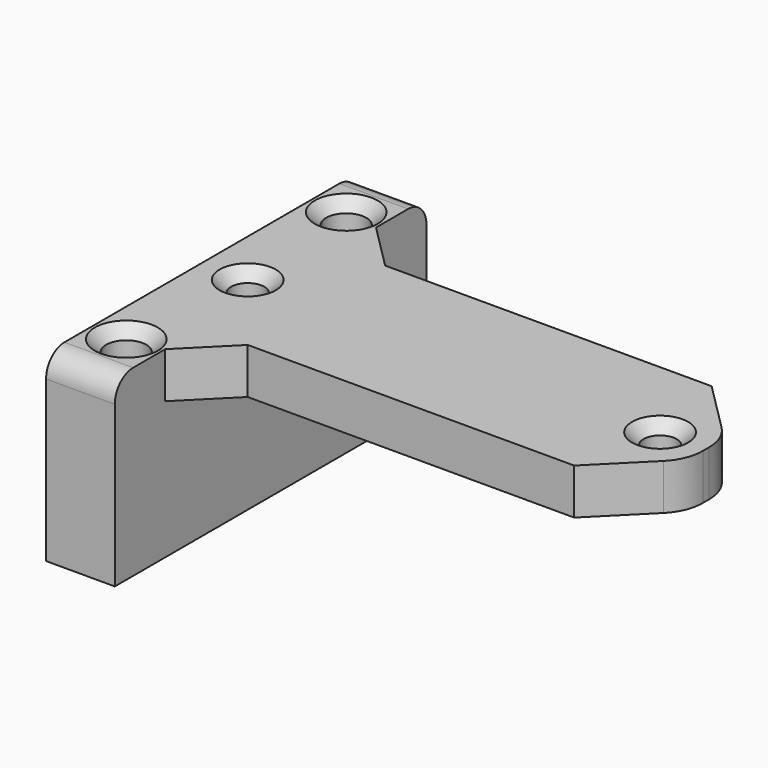
from build123d import *

# Parameters (mm, degrees)
SKETCH_W        = 6
SKETCH_H        = 34
PAD_DEPTH       = 12
PAD001_DEPTH    = 4
SKETCH003_R     = 1.75
POCKET_DEPTH    = 16.001
FILLET_R        = 2
CHAMFER_SIZE    = 1
SKETCH004_R     = 1.45
POCKET001_DEPTH = 6
CHAMFER001_SIZE = 5.5
FILLET001_R     = 4
CHAMFER002_SIZE = 4
CHAMFER003_SIZE = 1


with BuildPart() as part:
    # Sketch → Pad (new body)
    with BuildSketch(Plane.XY):
        with Locations((3, 17)):
            Rectangle(SKETCH_W, SKETCH_H)
    extrude(amount=PAD_DEPTH)

    # Sketch002 → Pad001 (join)
    with BuildSketch(Plane.XY.offset(12)):
        Polygon((6, 24.5), (44, 24.5), (44, 9.5), (6, 9.5), (6, 0), (0, 0), (0, 34), (6, 34), align=None)
    extrude(amount=PAD001_DEPTH)

    # Sketch003 (on Face11 of Pad001) → Pocket (cut, through all)
    with BuildSketch(Plane.XY.offset(16)):
        with Locations((3, 29)):
            Circle(SKETCH003_R)
        with Locations((3, 5)):
            Circle(SKETCH003_R)
    extrude(amount=-POCKET_DEPTH, mode=Mode.SUBTRACT)

    # Fillet
    fillet_edges = [part.edges().sort_by_distance(p)[0] for p in [
        (3, 0, 16),
        (3, 34, 16),
    ]]
    fillet(fillet_edges, radius=FILLET_R)

    # Chamfer
    chamfer_edges = [part.edges().sort_by_distance(p)[0] for p in [
        (1.25, 29, 16),
        (1.25, 5, 16),
    ]]
    chamfer(chamfer_edges, length=CHAMFER_SIZE)

    # Sketch004 (on Face1 of Chamfer) → Pocket001 (cut)
    with BuildSketch(Plane.XY.offset(16)):
        with Locations((4, 17)):
            Circle(SKETCH004_R)
        with Locations((40, 17)):
            Circle(SKETCH004_R)
    extrude(amount=-POCKET001_DEPTH, mode=Mode.SUBTRACT)

    # Chamfer001
    chamfer001_edges = [part.edges().sort_by_distance(p)[0] for p in [
        (44, 9.5, 14),
        (44, 24.5, 14),
    ]]
    chamfer(chamfer001_edges, length=CHAMFER001_SIZE)

    # Fillet001
    fillet001_edges = [part.edges().sort_by_distance(p)[0] for p in [
        (44, 15, 14),
        (44, 19, 14),
    ]]
    fillet(fillet001_edges, radius=FILLET001_R)

    # Chamfer002
    chamfer002_edges = [part.edges().sort_by_distance(p)[0] for p in [
        (6, 9.5, 14),
        (6, 24.5, 14),
    ]]
    chamfer(chamfer002_edges, length=CHAMFER002_SIZE)

    # Chamfer003
    chamfer003_edges = [part.edges().sort_by_distance(p)[0] for p in [
        (2.55, 17, 16),
        (38.55, 17, 16),
    ]]
    chamfer(chamfer003_edges, length=CHAMFER003_SIZE)


solid = part.part
